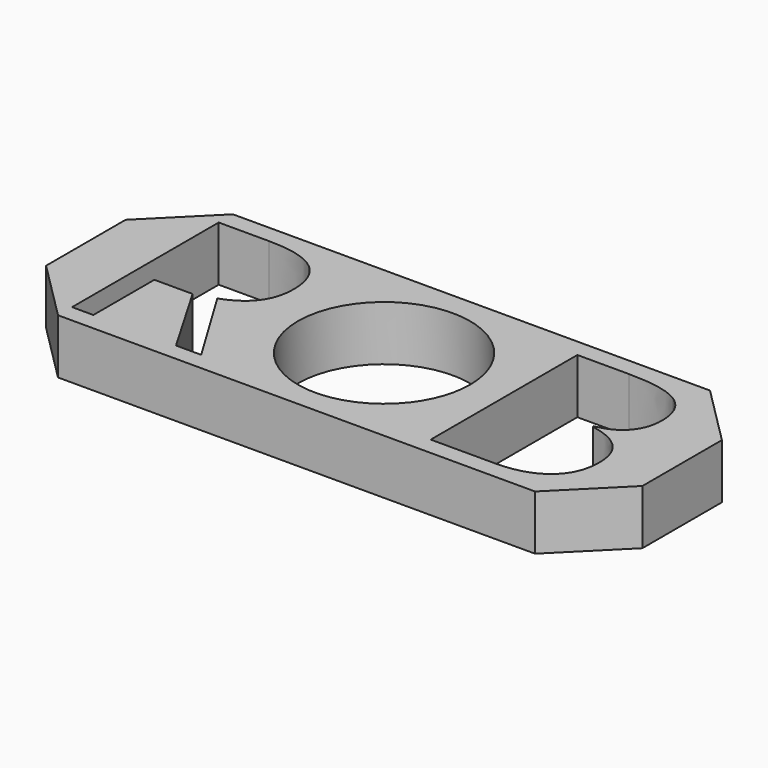
from build123d import *

# Parameters (mm, degrees)
F0_W     = 76.2
F0_H     = 27.94
F1_DEPTH = 7
F2_SIZE  = 7.62


with BuildPart() as f1:
    # F0 (on Top) → F1 (new body)
    with BuildSketch(Plane.XY):
        Rectangle(F0_W, F0_H)
        with BuildLine():
            Line((-22.8701785602, -1.9821503455), (-27.7604957957, -1.9821503455))
            Line((-27.7604957957, -1.9821503455), (-27.7604957957, -11.721775867))
            Line((-27.7604957957, -11.721775867), (-30.4824648231, -11.721775867))
            Line((-30.4824648231, -11.721775867), (-30.4824648231, 11.6994604529))
            Line((-30.4824648231, 11.6994604529), (-24.0594380975, 11.6994604529))
            add(Edge.make_bspline(
                [(-24.0594380975, 11.6994604529), (-19.7483722746, 11.6994604529), (-17.6902356183, 10.0488502329)],
                knots=[0, 0, 0, 1, 1, 1], degree=2))
            add(Edge.make_bspline(
                [(-17.6902356183, 10.0488502329), (-15.6320989621, 8.398240013), (-15.6320989621, 5.0816412169)],
                knots=[0, 0, 0, 1, 1, 1], degree=2))
            add(Edge.make_bspline(
                [(-15.6320989621, 5.0816412169), (-15.6320989621, 0.4373776788), (-20.3430020433, -1.1978541851)],
                knots=[0, 0, 0, 1, 1, 1], degree=2))
            Line((-20.3430020433, -1.1978541851), (-13.9814887421, -11.721775867))
            Line((-13.9814887421, -11.721775867), (-17.2006912829, -11.721775867))
            Line((-17.2006912829, -11.721775867), (-22.8701785602, -1.9821503455))
        make_face(mode=Mode.SUBTRACT)
        with BuildLine():
            Line((15.3450363151, -11.721775867), (15.3450363151, 11.6994604529))
            Line((15.3450363151, 11.6994604529), (21.9628555511, 11.6994604529))
            add(Edge.make_bspline(
                [(21.9628555511, 11.6994604529), (26.6224974453, 11.6994604529), (28.706264695, 10.3051561677)],
                knots=[0, 0, 0, 1, 1, 1], degree=2))
            add(Edge.make_bspline(
                [(28.706264695, 10.3051561677), (30.7900319448, 8.9108518825), (30.7900319448, 5.9018202082)],
                knots=[0, 0, 0, 1, 1, 1], degree=2))
            add(Edge.make_bspline(
                [(30.7900319448, 5.9018202082), (30.7900319448, 3.8154898992), (29.6289660602, 2.4621945635)],
                knots=[0, 0, 0, 1, 1, 1], degree=2))
            add(Edge.make_bspline(
                [(29.6289660602, 2.4621945635), (28.4679001757, 1.1088992279), (26.2380385431, 0.7090619697)],
                knots=[0, 0, 0, 1, 1, 1], degree=2))
            Line((26.2380385431, 0.7090619697), (26.2380385431, 0.5501522901))
            add(Edge.make_bspline(
                [(26.2380385431, 0.5501522901), (31.5743281052, -0.3622968377), (31.5743281052, -5.0578215628)],
                knots=[0, 0, 0, 1, 1, 1], degree=2))
            add(Edge.make_bspline(
                [(31.5743281052, -5.0578215628), (31.5743281052, -8.1950062045), (29.4521149653, -9.9583910358)],
                knots=[0, 0, 0, 1, 1, 1], degree=2))
            add(Edge.make_bspline(
                [(29.4521149653, -9.9583910358), (27.3299018253, -11.721775867), (23.5160695158, -11.721775867)],
                knots=[0, 0, 0, 1, 1, 1], degree=2))
            Line((23.5160695158, -11.721775867), (15.3450363151, -11.721775867))
        make_face(mode=Mode.SUBTRACT)
        with BuildLine():
            ThreePointArc((8.7965986845, 6.6045326545), (10.4346199147, 3.4811933637), (11, 0))
            ThreePointArc((11, 0), (10.4117353498, -3.5490515643), (8.7098605443, -6.7185064783))
            add(Edge.make_bspline(
                [(8.7098605443, -6.7185064783), (8.1189739543, -7.8747447622), (7.281651607, -8.8229557447)],
                knots=[0.7056859188, 0.7056859188, 0.7056859188, 1, 1, 1], degree=2))
            add(Edge.make_bspline(
                [(7.281651607, -8.8229557447), (4.436655731, -12.0447213449), (-0.6228234215, -12.0447213449)],
                knots=[0, 0, 0, 1, 1, 1], degree=2))
            add(Edge.make_bspline(
                [(-0.6228234215, -12.0447213449), (-5.7950771853, -12.0447213449), (-8.6067532898, -8.8793430504)],
                knots=[0, 0, 0, 1, 1, 1], degree=2))
            add(Edge.make_bspline(
                [(-8.6067532898, -8.8793430504), (-11.4184293943, -5.7139647559), (-11.4184293943, 0.0529187766)],
                knots=[0, 0, 0, 1, 1, 1], degree=2))
            add(Edge.make_bspline(
                [(-11.4184293943, 0.0529187766), (-11.4184293943, 5.7736672408), (-8.5990641118, 8.9211041199)],
                knots=[0, 0, 0, 1, 1, 1], degree=2))
            add(Edge.make_bspline(
                [(-8.5990641118, 8.9211041199), (-5.7796988292, 12.068540999), (-0.5920667093, 12.068540999)],
                knots=[0, 0, 0, 1, 1, 1], degree=2))
            add(Edge.make_bspline(
                [(-0.5920667093, 12.068540999), (4.4571602058, 12.068540999), (7.2919038444, 8.8647168143)],
                knots=[0, 0, 0, 1, 1, 1], degree=2))
            add(Edge.make_bspline(
                [(7.2919038444, 8.8647168143), (8.1849092487, 7.8554430753), (8.7965986845, 6.6045326545)],
                knots=[0, 0, 0, 0.3150215745, 0.3150215745, 0.3150215745], degree=2))
        make_face(mode=Mode.SUBTRACT)
        with BuildLine():
            ThreePointArc((8.7098605443, -6.7185064783), (-10.9997668891, 0.0716127389), (8.7965986845, 6.6045326545))
            add(Edge.make_bspline(
                [(7.2919038444, 8.8647168143), (8.1849092487, 7.8554430753), (8.7965986845, 6.6045326545)],
                knots=[0, 0, 0, 0.3150215745, 0.3150215745, 0.3150215745], degree=2))
            add(Edge.make_bspline(
                [(-0.5920667093, 12.068540999), (4.4571602058, 12.068540999), (7.2919038444, 8.8647168143)],
                knots=[0, 0, 0, 1, 1, 1], degree=2))
            add(Edge.make_bspline(
                [(-8.5990641118, 8.9211041199), (-5.7796988292, 12.068540999), (-0.5920667093, 12.068540999)],
                knots=[0, 0, 0, 1, 1, 1], degree=2))
            add(Edge.make_bspline(
                [(-11.4184293943, 0.0529187766), (-11.4184293943, 5.7736672408), (-8.5990641118, 8.9211041199)],
                knots=[0, 0, 0, 1, 1, 1], degree=2))
            add(Edge.make_bspline(
                [(-8.6067532898, -8.8793430504), (-11.4184293943, -5.7139647559), (-11.4184293943, 0.0529187766)],
                knots=[0, 0, 0, 1, 1, 1], degree=2))
            add(Edge.make_bspline(
                [(-0.6228234215, -12.0447213449), (-5.7950771853, -12.0447213449), (-8.6067532898, -8.8793430504)],
                knots=[0, 0, 0, 1, 1, 1], degree=2))
            add(Edge.make_bspline(
                [(7.281651607, -8.8229557447), (4.436655731, -12.0447213449), (-0.6228234215, -12.0447213449)],
                knots=[0, 0, 0, 1, 1, 1], degree=2))
            add(Edge.make_bspline(
                [(8.7098605443, -6.7185064783), (8.1189739543, -7.8747447622), (7.281651607, -8.8229557447)],
                knots=[0.7056859188, 0.7056859188, 0.7056859188, 1, 1, 1], degree=2))
        make_face()
    extrude(amount=F1_DEPTH)

    # F2
    f2_edges = [f1.edges().sort_by_distance(p)[0] for p in [
        (-38.1, -13.97, 3.5),
        (-38.1, 13.97, 3.5),
        (38.1, -13.97, 3.5),
        (38.1, 13.97, 3.5),
    ]]
    chamfer(f2_edges, length=F2_SIZE)


solid = f1.part
